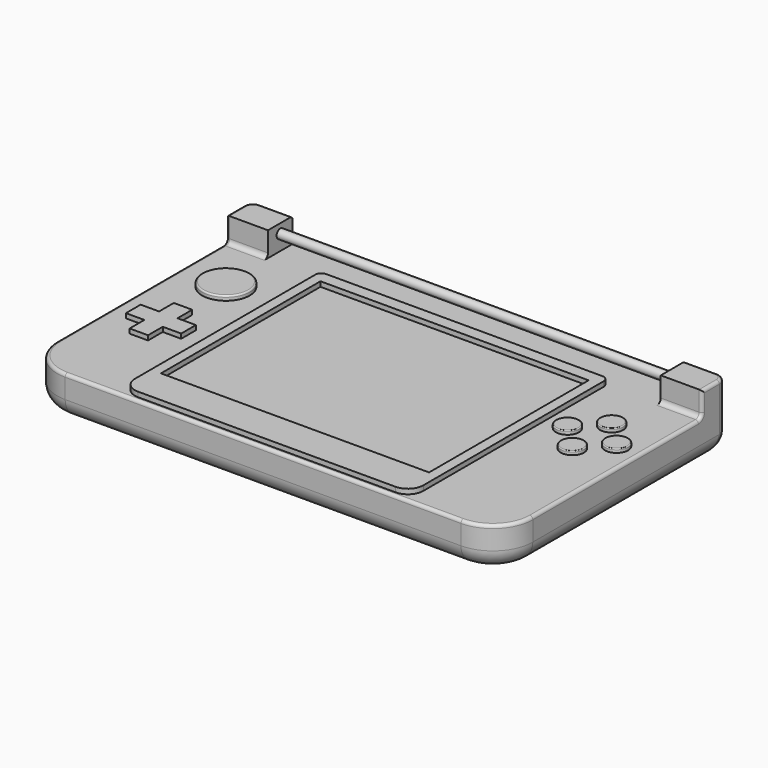
from build123d import *

# Parameters (mm, degrees)
PAD006_DEPTH  = 1.5
SKETCH006_R   = 7.75
PAD007_DEPTH  = 1.5
FILLET003_R   = 0.5
SKETCH004_R   = 3.75
PAD002_DEPTH  = 1.2
FILLET006_R   = 0.3
SKETCH007_R   = 3.75
PAD003_DEPTH  = 1.2
FILLET005_R   = 0.3
SKETCH008_R   = 3.75
PAD004_DEPTH  = 1.2
FILLET004_R   = 0.3
SKETCH009_R   = 3.75
PAD005_DEPTH  = 1.2
FILLET007_R   = 0.3
SKETCH002_W   = 94
SKETCH002_H   = 80.5
SKETCH002_W_2 = 87.4
SKETCH002_H_2 = 65
PAD001_DEPTH  = 1.6
SKETCH010_W   = 13.5
SKETCH010_H   = 10
PAD008_DEPTH  = 8
FILLET008_R   = 3
SKETCH013_W   = 13.5
SKETCH013_H   = 10
PAD009_DEPTH  = 8
FILLET009_R   = 3
SKETCH014_R   = 1.5
PAD010_DEPTH  = 128
SKETCH001_W   = 155
SKETCH001_H   = 92
PAD_DEPTH     = 13.4
FILLET_R      = 13
FILLET001_R   = 3
FILLET002_R   = 6
FILLET010_R   = 1.5
FILLET011_R   = 1
FILLET012_R   = 5
FILLET013_R   = 2


with BuildPart() as cross_button:
    # Sketch005 → Pad006 (new body)
    with BuildSketch(Plane.XY):
        Polygon((-59.5, -0.5), (-65.5, -0.5), (-65.5, -6.5), (-71.5, -6.5), (-71.5, -12.5), (-65.5, -12.5), (-65.5, -18.5), (-59.5, -18.5), (-59.5, -12.5), (-53.5, -12.5), (-53.5, -6.5), (-59.5, -6.5), align=None)
    extrude(amount=PAD006_DEPTH)


with BuildPart() as cross_button_1:
    # Body005 placement: moved
    add(cross_button.part.moved(Location((0, 0, 13.4))))


with BuildPart() as joystick:
    # Sketch006 → Pad007 (new body)
    with BuildSketch(Plane.XY):
        with Locations((-62.5, 17)):
            Circle(SKETCH006_R)
    extrude(amount=PAD007_DEPTH)

    # Fillet003
    fillet003_edges = [joystick.edges().sort_by_distance(p)[0] for p in [
        (-70.25, 17, 1.5),
    ]]
    fillet(fillet003_edges, radius=FILLET003_R)


with BuildPart() as joystick_1:
    # Body006 placement: moved
    add(joystick.part.moved(Location((0, 0, 13.4))))


with BuildPart() as obj1:
    # Sketch004 → Pad002 (new body)
    with BuildSketch(Plane.XY):
        with Locations((62, 2.5)):
            Circle(SKETCH004_R)
    extrude(amount=PAD002_DEPTH)

    # Fillet006
    fillet006_edges = [obj1.edges().sort_by_distance(p)[0] for p in [
        (58.25, 2.5, 1.2),
    ]]
    fillet(fillet006_edges, radius=FILLET006_R)


with BuildPart() as obj1_1:
    # Body004 placement: moved
    add(obj1.part.moved(Location((0, 0, 13.4))))


with BuildPart() as obj2:
    # Sketch007 → Pad003 (new body)
    with BuildSketch(Plane.XY):
        with Locations((54, 10.5)):
            Circle(SKETCH007_R)
    extrude(amount=PAD003_DEPTH)

    # Fillet005
    fillet005_edges = [obj2.edges().sort_by_distance(p)[0] for p in [
        (50.25, 10.5, 1.2),
    ]]
    fillet(fillet005_edges, radius=FILLET005_R)


with BuildPart() as obj2_1:
    # Body007 placement: moved
    add(obj2.part.moved(Location((0, 0, 13.4))))


with BuildPart() as obj3:
    # Sketch008 → Pad004 (new body)
    with BuildSketch(Plane.XY):
        with Locations((62, 18.5)):
            Circle(SKETCH008_R)
    extrude(amount=PAD004_DEPTH)

    # Fillet004
    fillet004_edges = [obj3.edges().sort_by_distance(p)[0] for p in [
        (58.25, 18.5, 1.2),
    ]]
    fillet(fillet004_edges, radius=FILLET004_R)


with BuildPart() as obj3_1:
    # Body008 placement: moved
    add(obj3.part.moved(Location((0, 0, 13.4))))


with BuildPart() as obj4:
    # Sketch009 → Pad005 (new body)
    with BuildSketch(Plane.XY):
        with Locations((70, 10.5)):
            Circle(SKETCH009_R)
    extrude(amount=PAD005_DEPTH)

    # Fillet007
    fillet007_edges = [obj4.edges().sort_by_distance(p)[0] for p in [
        (66.25, 10.5, 1.2),
    ]]
    fillet(fillet007_edges, radius=FILLET007_R)


with BuildPart() as obj4_1:
    # Body009 placement: moved
    add(obj4.part.moved(Location((0, 0, 13.4))))


with BuildPart() as screen_perimeter:
    # Sketch002 → Pad001 (new body)
    with BuildSketch(Plane.XY):
        with Locations((0, -4.25)):
            Rectangle(SKETCH002_W, SKETCH002_H)
        with Locations((0, -0.5)):
            Rectangle(SKETCH002_W_2, SKETCH002_H_2, mode=Mode.SUBTRACT)
    extrude(amount=PAD001_DEPTH)


with BuildPart() as screen_perimeter_1:
    # Body002 placement: moved
    add(screen_perimeter.part.moved(Location((0, 0, 13.4))))


with BuildPart() as hinge_bottom_l:
    # Sketch010 → Pad008 (new body)
    with BuildSketch(Plane.XY):
        with Locations((-70.75, 41)):
            Rectangle(SKETCH010_W, SKETCH010_H)
    extrude(amount=PAD008_DEPTH)

    # Fillet008
    fillet008_edges = [hinge_bottom_l.edges().sort_by_distance(p)[0] for p in [
        (-77.5, 46, 4),
    ]]
    fillet(fillet008_edges, radius=FILLET008_R)


with BuildPart() as hinge_bottom_l_1:
    # Body010 placement: moved
    add(hinge_bottom_l.part.moved(Location((0, 0, 13.4))))


with BuildPart() as hinge_bottom_r:
    # Sketch013 → Pad009 (new body)
    with BuildSketch(Plane.XY):
        with Locations((70.75, 41)):
            Rectangle(SKETCH013_W, SKETCH013_H)
    extrude(amount=PAD009_DEPTH)

    # Fillet009
    fillet009_edges = [hinge_bottom_r.edges().sort_by_distance(p)[0] for p in [
        (77.5, 46, 4),
    ]]
    fillet(fillet009_edges, radius=FILLET009_R)

    # Sketch014 (on Face4 of Fillet009) → Pad010 (join)
    with BuildSketch(Plane(origin=(64, 0, 0), x_dir=(0, -1, 0), z_dir=(-1, 0, 0))):
        with Locations((-41, 5)):
            Circle(SKETCH014_R)
    extrude(amount=PAD010_DEPTH)


with BuildPart() as hinge_bottom_r_1:
    # Body013 placement: moved
    add(hinge_bottom_r.part.moved(Location((0, 0, 13.4))))


with BuildPart() as main_bottom:
    # Sketch001 → Pad (new body)
    with BuildSketch(Plane.XY):
        Rectangle(SKETCH001_W, SKETCH001_H)
    extrude(amount=PAD_DEPTH)

    # Fillet
    fillet_edges = [main_bottom.edges().sort_by_distance(p)[0] for p in [
        (-77.5, -46, 6.7),
        (77.5, -46, 6.7),
    ]]
    fillet(fillet_edges, radius=FILLET_R)

    # Fillet001
    fillet001_edges = [main_bottom.edges().sort_by_distance(p)[0] for p in [
        (-77.5, 46, 6.7),
        (77.5, 46, 6.7),
    ]]
    fillet(fillet001_edges, radius=FILLET001_R)

    # Fillet002
    fillet002_edges = [main_bottom.edges().sort_by_distance(p)[0] for p in [
        (-77.5, 5, 0),
        (-73.692388, -42.192388, 0),
        (0, -46, 0),
        (73.692388, -42.192388, 0),
        (77.5, 5, 0),
    ]]
    fillet(fillet002_edges, radius=FILLET002_R)

    # Boolean: union cross_button, joystick, obj1, obj2, obj3, obj4, screen_perimeter
    add(cross_button_1.part)
    add(joystick_1.part)
    add(obj1_1.part)
    add(obj2_1.part)
    add(obj3_1.part)
    add(obj4_1.part)
    add(screen_perimeter_1.part)

    # Boolean001: union hinge_bottom_L
    add(hinge_bottom_l_1.part)

    # Boolean002: union hinge_bottom_R
    add(hinge_bottom_r_1.part)

    # Fillet010
    fillet010_edges = [main_bottom.edges().sort_by_distance(p)[0] for p in [
        (-70.75, 36, 13.4),
        (70.75, 36, 13.4),
    ]]
    fillet(fillet010_edges, radius=FILLET010_R)

    # Fillet011
    fillet011_edges = [main_bottom.edges().sort_by_distance(p)[0] for p in [
        (77.5, 36, 18.15),
        (77.5, 35.56066, 13.83934),
        (77.5, 39.5, 21.4),
        (77.5, 0.75, 13.4),
        (77.5, 43, 13.7),
        (77.5, -33, 9.7),
        (77.5, 5, 6),
        (-77.5, 0.75, 13.4),
        (-77.5, 35.56066, 13.83934),
        (-77.5, -33, 9.7),
        (-77.5, 36, 18.15),
        (-77.5, 5, 6),
        (-77.5, 39.5, 21.4),
        (-77.5, 43, 13.7),
    ]]
    fillet(fillet011_edges, radius=FILLET011_R)

    # Fillet012
    fillet012_edges = [main_bottom.edges().sort_by_distance(p)[0] for p in [
        (-47, -44.5, 14.2),
        (47, -44.5, 14.2),
    ]]
    fillet(fillet012_edges, radius=FILLET012_R)

    # Fillet013
    fillet013_edges = [main_bottom.edges().sort_by_distance(p)[0] for p in [
        (-47, 36, 14.2),
        (47, 36, 14.2),
    ]]
    fillet(fillet013_edges, radius=FILLET013_R)


solid = main_bottom.part
